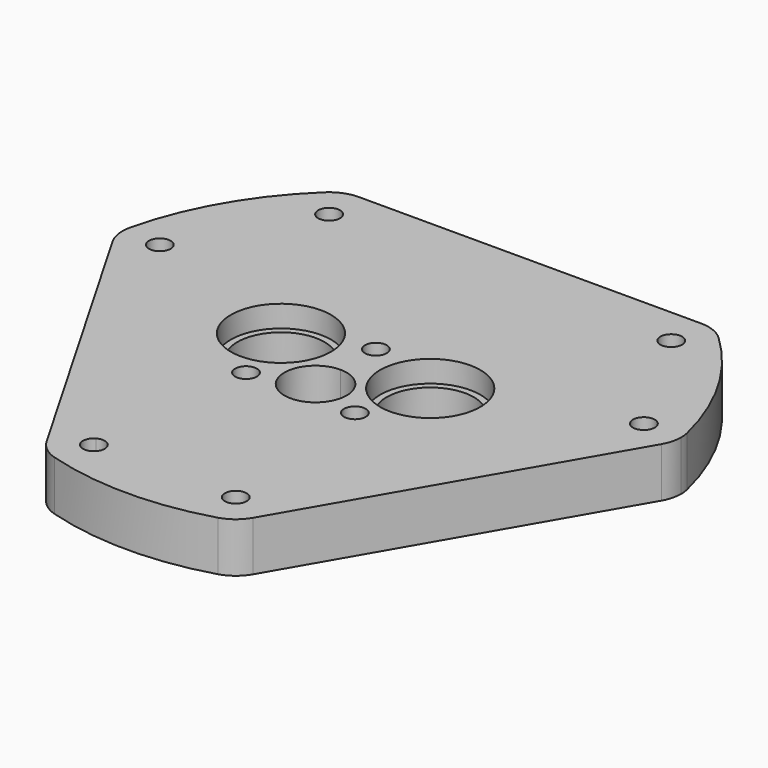
from build123d import *

# Parameters (mm, degrees)
F0_R     = 1.75
F0_R_2   = 8.05
F0_R_3   = 7
F1_DEPTH = 8
F2_DEPTH = 3.5


with BuildPart() as f1:
    # F0 (on Top) → F1 (new body)
    with BuildSketch(Plane.XY):
        with BuildLine():
            ThreePointArc((-32.905765, 9.292011), (-33.709612, 6.292011), (-35.905765, 4.095859))
            Line((-35.905765, 4.095859), (-14.405765, -33.143234))
            ThreePointArc((-14.405765, -33.143234), (-8.405765, -33.143234), (-5.405765, -38.339386))
            ThreePointArc((-5.405765, -38.339386), (-7.818648, -43.149022), (-13.11663, -44.090294))
            ThreePointArc((-13.11663, -44.090294), (0, -46), (13.116629, -44.090294))
            ThreePointArc((13.116629, -44.090294), (6.596129, -34.752269), (17.405765, -38.339386))
            ThreePointArc((17.405765, -38.339386), (17.20132, -39.8923), (16.601917, -41.339386))
            Line((16.601917, -41.339386), (44.101917, 6.292011))
            ThreePointArc((44.101917, 6.292011), (32.968364, 10.156462), (44.741629, 10.685813))
            ThreePointArc((44.741629, 10.685813), (39.837169, 23), (31.625, 33.404481))
            ThreePointArc((31.625, 33.404481), (33.011352, 31.419083), (33.5, 29.047375))
            ThreePointArc((33.5, 29.047375), (27.5, 23.047375), (21.5, 29.047375))
            Line((21.5, 29.047375), (-21.5, 29.047375))
            ThreePointArc((-21.5, 29.047375), (-29.871708, 23.536023), (-31.625, 33.404481))
            ThreePointArc((-31.625, 33.404481), (-39.837169, 23), (-44.741629, 10.685813))
            ThreePointArc((-44.741629, 10.685813), (-38.204048, 15.250836), (-32.905765, 9.292011))
        make_face()
        with Locations((-8.75, -11.083321)):
            Circle(F0_R, mode=Mode.SUBTRACT)
        with BuildLine():
            ThreePointArc((5, -8.05), (-3.535534, -11.585534), (0, -3.05))
            ThreePointArc((0, -3.05), (3.535534, -4.514466), (5, -8.05))
        make_face(mode=Mode.SUBTRACT)
        with Locations((8.75, -11.083321)):
            Circle(F0_R, mode=Mode.SUBTRACT)
        with Locations((-12, 0)):
            Circle(F0_R_2, mode=Mode.SUBTRACT)
        with BuildLine():
            ThreePointArc((1.75, 4.072124), (1.237437, 2.834687), (0, 2.322124))
            ThreePointArc((0, 2.322124), (-1.237437, 5.309561), (1.75, 4.072124))
        make_face(mode=Mode.SUBTRACT)
        with BuildLine():
            ThreePointArc((20.05, 0), (12, -8.05), (3.95, 0))
            ThreePointArc((3.95, 0), (12, 8.05), (20.05, 0))
        make_face(mode=Mode.SUBTRACT)
        with BuildLine():
            Line((-14.405765, -33.143234), (-35.905765, 4.095859))
            ThreePointArc((-35.905765, 4.095859), (-40.458679, 3.496456), (-44.101917, 6.292011))
            Line((-44.101917, 6.292011), (-16.601917, -41.339386))
            ThreePointArc((-16.601917, -41.339386), (-17.20132, -36.786472), (-14.405765, -33.143234))
        make_face()
        with BuildLine():
            ThreePointArc((-44.101917, 6.292011), (-40.458679, 3.496456), (-35.905765, 4.095859))
            ThreePointArc((-35.905765, 4.095859), (-33.709612, 6.292011), (-32.905765, 9.292011))
            ThreePointArc((-32.905765, 9.292011), (-38.204048, 15.250836), (-44.741629, 10.685813))
            ThreePointArc((-44.741629, 10.685813), (-44.843165, 8.42756), (-44.101917, 6.292011))
        make_face()
        with BuildLine():
            ThreePointArc((-38.030765, 7.776467), (-40.421309, 10.167011), (-37.155765, 9.292011))
            ThreePointArc((-37.155765, 9.292011), (-37.39022, 8.417011), (-38.030765, 7.776467))
        make_face(mode=Mode.SUBTRACT)
        with BuildLine():
            ThreePointArc((-27.5, 35.047375), (-29.720063, 34.62154), (-31.625, 33.404481))
            ThreePointArc((-31.625, 33.404481), (-29.871708, 23.536023), (-21.5, 29.047375))
            ThreePointArc((-21.5, 29.047375), (-23.257359, 33.290016), (-27.5, 35.047375))
        make_face()
        with Locations((-27.5, 29.047375)):
            Circle(F0_R, mode=Mode.SUBTRACT)
        with BuildLine():
            Line((27.5, 35.047375), (-27.5, 35.047375))
            ThreePointArc((-27.5, 35.047375), (-23.257359, 33.290016), (-21.5, 29.047375))
            Line((-21.5, 29.047375), (21.5, 29.047375))
            ThreePointArc((21.5, 29.047375), (23.257359, 33.290016), (27.5, 35.047375))
        make_face()
        with BuildLine():
            ThreePointArc((33.5, 29.047375), (33.011352, 31.419083), (31.625, 33.404481))
            ThreePointArc((31.625, 33.404481), (29.720063, 34.62154), (27.5, 35.047375))
            ThreePointArc((27.5, 35.047375), (23.257359, 33.290016), (21.5, 29.047375))
            ThreePointArc((21.5, 29.047375), (27.5, 23.047375), (33.5, 29.047375))
        make_face()
        with BuildLine():
            ThreePointArc((29.25, 29.047375), (27.5, 27.297375), (25.75, 29.047375))
            ThreePointArc((25.75, 29.047375), (27.5, 30.797375), (29.25, 29.047375))
        make_face(mode=Mode.SUBTRACT)
        with BuildLine():
            ThreePointArc((44.905765, 9.292011), (44.86459, 9.993728), (44.741629, 10.685813))
            ThreePointArc((44.741629, 10.685813), (32.968364, 10.156462), (44.101917, 6.292011))
            ThreePointArc((44.101917, 6.292011), (44.70132, 7.739097), (44.905765, 9.292011))
        make_face()
        with Locations((38.905765, 9.292011)):
            Circle(F0_R, mode=Mode.SUBTRACT)
        with BuildLine():
            ThreePointArc((17.405765, -38.339386), (6.596129, -34.752269), (13.116629, -44.090294))
            ThreePointArc((13.116629, -44.090294), (15.123102, -43.0491), (16.601917, -41.339386))
            ThreePointArc((16.601917, -41.339386), (17.20132, -39.8923), (17.405765, -38.339386))
        make_face()
        with Locations((11.405765, -38.339386)):
            Circle(F0_R, mode=Mode.SUBTRACT)
        with BuildLine():
            ThreePointArc((-5.405765, -38.339386), (-8.405765, -33.143234), (-14.405765, -33.143234))
            ThreePointArc((-14.405765, -33.143234), (-17.20132, -36.786472), (-16.601917, -41.339386))
            ThreePointArc((-16.601917, -41.339386), (-15.123102, -43.0491), (-13.11663, -44.090294))
            ThreePointArc((-13.11663, -44.090294), (-7.818648, -43.149022), (-5.405765, -38.339386))
        make_face()
        with BuildLine():
            ThreePointArc((-9.655765, -38.339386), (-12.280765, -39.854931), (-12.280765, -36.823842))
            ThreePointArc((-12.280765, -36.823842), (-10.530765, -36.823842), (-9.655765, -38.339386))
        make_face(mode=Mode.SUBTRACT)
        with Locations((-12, 0)):
            Circle(F0_R_2)
        with Locations((-12, 0)):
            Circle(F0_R_3, mode=Mode.SUBTRACT)
        with BuildLine():
            ThreePointArc((20.05, 0), (12, 8.05), (3.95, 0))
            ThreePointArc((3.95, 0), (12, -8.05), (20.05, 0))
        make_face()
        with BuildLine():
            ThreePointArc((19, 0), (12, -7), (5, 0))
            ThreePointArc((5, 0), (12, 7), (19, 0))
        make_face(mode=Mode.SUBTRACT)
    extrude(amount=-F1_DEPTH)

    # F0 (on Top) → F2 (cut)
    with BuildSketch(Plane.XY):
        with BuildLine():
            ThreePointArc((20.05, 0), (12, 8.05), (3.95, 0))
            ThreePointArc((3.95, 0), (12, -8.05), (20.05, 0))
        make_face()
        with BuildLine():
            ThreePointArc((19, 0), (12, -7), (5, 0))
            ThreePointArc((5, 0), (12, 7), (19, 0))
        make_face(mode=Mode.SUBTRACT)
        with Locations((-12, 0)):
            Circle(F0_R_2)
        with Locations((-12, 0)):
            Circle(F0_R_3, mode=Mode.SUBTRACT)
    extrude(amount=-F2_DEPTH, mode=Mode.SUBTRACT)


solid = f1.part
